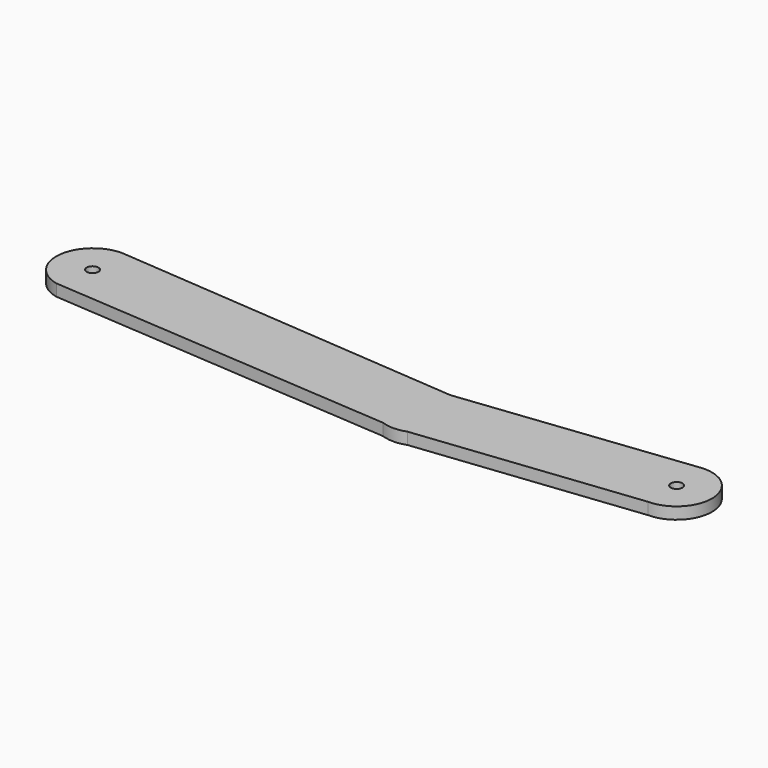
from build123d import *

# Parameters (mm, degrees)
F2_DEPTH = 3.175
F3_D     = 3.175


with BuildPart() as f2:
    # F1 (on Top) → F2 (new body)
    with BuildSketch(Plane.XY):
        with BuildLine():
            Line((0, 2.415259), (-94.317749, 9.838481))
            ThreePointArc((-94.317749, 9.838481), (-104.255282, 1.148889), (-96.603989, -9.608493))
            Line((-96.603989, -9.608493), (-3.201679, -16.277838))
            ThreePointArc((-3.201679, -16.277838), (0.076397, -16.832355), (3.345146, -16.225273))
            Line((3.345146, -16.225273), (62.899716, -9.559941))
            ThreePointArc((62.899716, -9.559941), (72.446803, 0.49558), (61.909888, 9.508559))
            Line((61.909888, 9.508559), (0, 2.415259))
        make_face()
    extrude(amount=F2_DEPTH)

    # F3 (through all)
    with Locations(Plane(origin=(0, 0, 0), x_dir=(1, 0, 0), z_dir=(0, 0, -1))):
        with Locations((-94.541949, 0), (62.938051, 0)):
            Hole(F3_D / 2)


solid = f2.part
